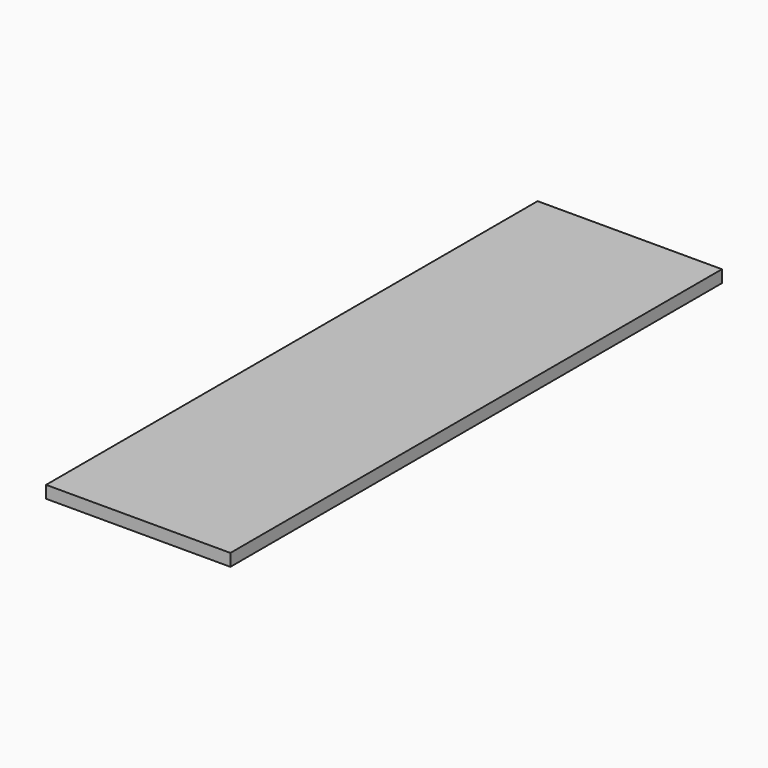
from build123d import *

# Parameters (mm, degrees)
PAD_DEPTH = 10


with BuildPart() as part:
    # Sketch → Pad (new body)
    with BuildSketch(Plane.XY):
        Polygon((0, 500), (150, 500), (150, 0), (0, 0), (0, 250), align=None)
    extrude(amount=PAD_DEPTH)


solid = part.part
